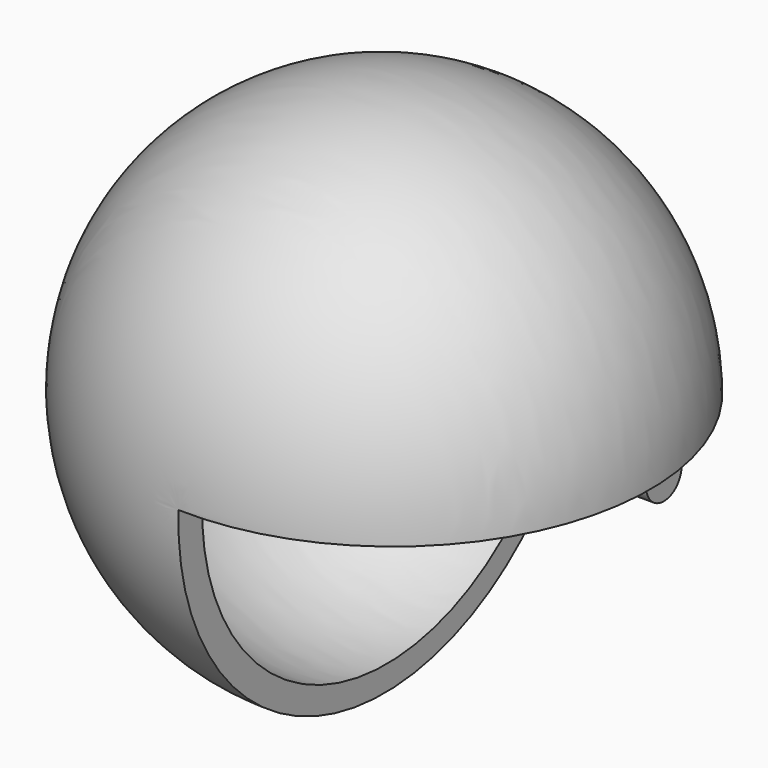
from build123d import *

# Parameters (mm, degrees)
F1_ANGLE = 270
F2_W     = 29.436163
F2_H     = 15.344384
F3_DEPTH = 15.494
F4_R     = 4.39162
F5_DEPTH = 35.814


with BuildPart() as f1:
    # F0 (on Top) → F1 (revolve)
    with BuildSketch(Plane.XY):
        with BuildLine():
            ThreePointArc((0, -55.584244), (52.469857, -4.853833), (0, 45.876577))
            Line((0, 45.876577), (0, 41.02093))
            ThreePointArc((0, 41.02093), (47.629581, -4.347766), (0, -49.716461))
            Line((0, -49.716461), (0, -55.584244))
        make_face()
    revolve(axis=Axis((0, -4.697263, 0), (0, -1, 0)), revolution_arc=F1_ANGLE)


with BuildPart() as f3:
    # F2 (on Right) → F3 (new body)
    with BuildSketch(Plane.YZ):
        with Locations((-0.626303, 0)):
            Rectangle(F2_W, F2_H)
    extrude(amount=F3_DEPTH)


with BuildPart() as f5:
    # F4 (on face) → F5 (new body)
    with BuildSketch(Plane.YZ.offset(15.494)):
        Circle(F4_R)
    extrude(amount=F5_DEPTH)


solid = Compound([f1.part, f3.part, f5.part])
